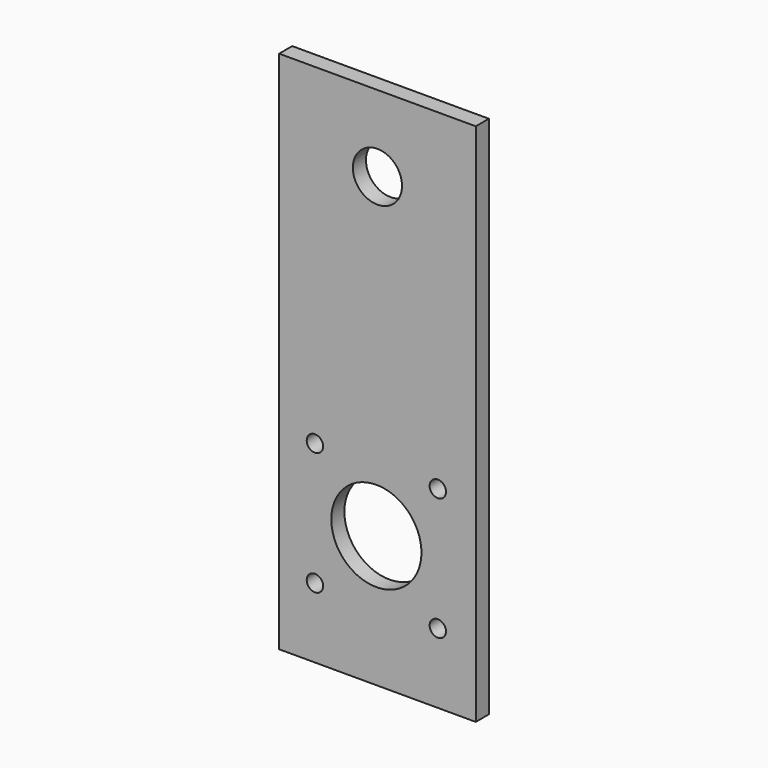
from build123d import *

# Parameters (mm, degrees)
F0_W     = 76.2
F0_H     = 203.2
F1_DEPTH = 6.35
F3_D     = 6.35
F5_D     = 19.05
F7_D     = 34.925


with BuildPart() as f1:
    # F0 (on Front) → F1 (new body)
    with BuildSketch(Plane.XZ):
        with Locations((38.1, 101.6)):
            Rectangle(F0_W, F0_H)
    extrude(amount=F1_DEPTH)

    # F3 (through all)
    with Locations(Plane.XZ.offset(6.35)):
        with Locations((13.868812, 74.729279), (61.493812, 74.729279), (61.493812, 27.104279), (13.868812, 27.104279)):
            Hole(F3_D / 2)

    # F5 (through all)
    with Locations(Plane.XZ.offset(6.35)):
        with Locations((38.1, 173.591416)):
            Hole(F5_D / 2)

    # F7 (through all)
    with Locations(Plane.XZ.offset(6.35)):
        with Locations((37.681312, 50.916779)):
            Hole(F7_D / 2)


solid = f1.part
